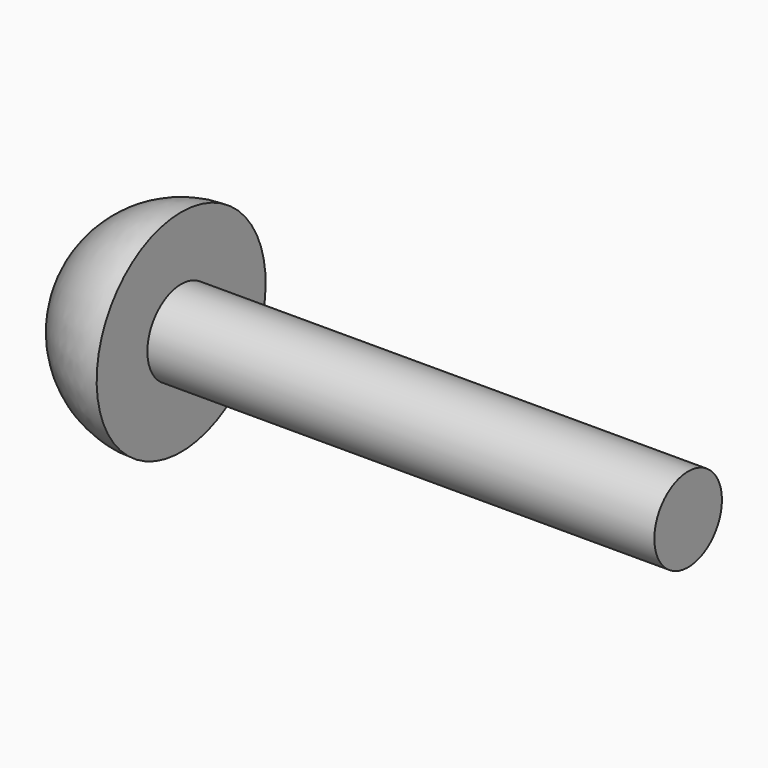
from build123d import *

# Parameters (mm, degrees)
F0_R     = 1.27
F1_DEPTH = 15.24


with BuildPart() as f1:
    # F0 (on Right) → F1 (new body)
    with BuildSketch(Plane.YZ):
        Circle(F0_R)
    extrude(amount=F1_DEPTH)

    # F2 (on Front) → F3 (revolve)
    with BuildSketch(Plane.XZ):
        with BuildLine():
            Line((-3.175, 0), (0, 0))
            Line((0, 0), (0, 3.175))
            ThreePointArc((0, 3.175), (-2.245064, 2.245064), (-3.175, 0))
        make_face()
    revolve(axis=Axis((-1.5875, 0, 0), (-1, 0, 0)))


solid = f1.part
